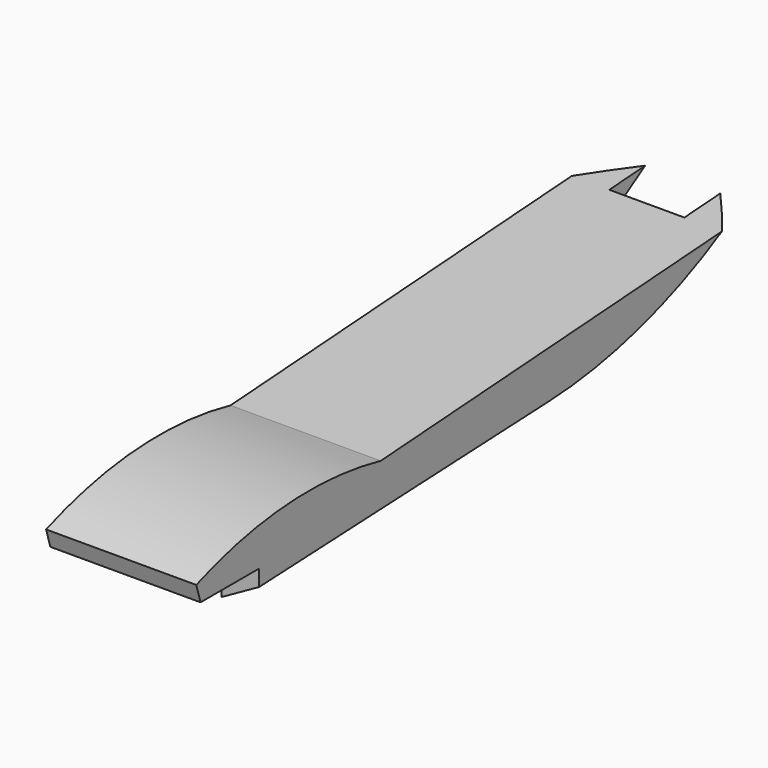
from build123d import *

# Parameters (mm, degrees)
F1_DEPTH = 254
F5_DEPTH = 307.34


with BuildPart() as f1:
    # F0 (on Right) → F1 (new body)
    with BuildSketch(Plane.YZ):
        with BuildLine():
            ThreePointArc((124.7064843774, -223.4433591366), (347.4699832399, -182.0563968003), (550.3501296043, -81.1797231436))
            Line((550.3501296043, -81.1797231436), (-238.9836609364, -132.8076571226))
            ThreePointArc((-238.9836609364, -132.8076571226), (-435.8096530096, -129.9809624391), (-625.6195306778, -182.1410208941))
            Line((-625.6195306778, -182.1410208941), (-612.9993796349, -223.4433591366))
            Line((-612.9993796349, -223.4433591366), (-489.0923500061, -223.4433591366))
            Line((-489.0923500061, -223.4433591366), (-489.0923500061, -250.9782612324))
            Line((-489.0923500061, -250.9782612324), (124.7064843774, -223.4433591366))
        make_face()
    extrude(amount=F1_DEPTH)

    # F3: sweep along a path in F3_path
    with BuildLine(Plane(origin=(0, 124.7064843774, -223.4433591366), x_dir=(0, 0, -1), z_dir=(-1, 0, 0))) as f3_path:
        Line((27.5349020958, 613.7988343835), (0, 0))
        ThreePointArc((0, 0), (-41.3869623363, -222.7634988625), (-142.263635993, -425.643645227))
    # F2 (on face) → F3 (sweep)
    with BuildSketch(Plane.XZ.offset(489.0923500061)):
        Polygon((63.5, -286.5382612324), (63.5, -250.9782612324), (0, -250.9782612324), align=None)
        Polygon((254, -250.9782612324), (190.5, -250.9782612324), (190.5, -286.5382612324), align=None)
    sweep(path=f3_path.line)

    # F4 (on face) → F5 (cut)
    with BuildSketch(Plane(origin=(0, 0, 0), x_dir=(0, -1, 0), z_dir=(-1, 0, 0))):
        with BuildLine():
            Line((622.0669402345, -193.7676877722), (640.6544446945, -195.0154304504))
            Line((640.6544446945, -195.0154304504), (549.1129755974, -11.9324130937))
            Line((549.1129755974, -11.9324130937), (-511.2428665161, 10.9529634938))
            Line((-511.2428665161, 10.9529634938), (-584.1369628906, -112.79758811))
            Line((-584.1369628906, -112.79758811), (232.107648548, -167.5904861977))
            ThreePointArc((232.107648548, -167.5904861977), (429.0143567126, -151.9718221639), (622.0669402345, -193.7676877722))
        make_face()
    extrude(amount=-F5_DEPTH, mode=Mode.SUBTRACT)


solid = f1.part
